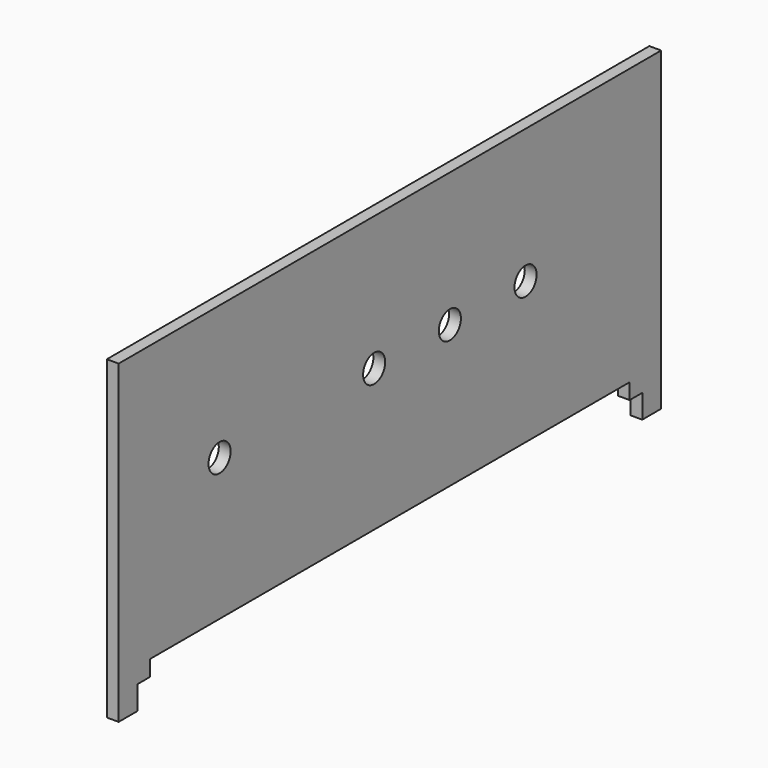
from build123d import *

# Parameters (mm, degrees)
F0_R     = 1.75
F1_DEPTH = 0.75


with BuildPart() as f1:
    # F0 (on Right) → F1 (new body, symmetric)
    with BuildSketch(Plane.YZ):
        Polygon((0, 37), (-43, 37), (-43, -3), (-40, -3), (-40, 0), (-38, 0), (-38, 2), (0, 2), (38, 2), (38, 0), (40, 0), (40, -3), (43, -3), (43, 37), align=None)
        with Locations((-27, 20)):
            Circle(F0_R, mode=Mode.SUBTRACT)
        with Locations((-2.5, 20)):
            Circle(F0_R, mode=Mode.SUBTRACT)
        with Locations((9.5, 20)):
            Circle(F0_R, mode=Mode.SUBTRACT)
        with Locations((21.5, 20)):
            Circle(F0_R, mode=Mode.SUBTRACT)
    extrude(amount=F1_DEPTH, both=True)


solid = f1.part
